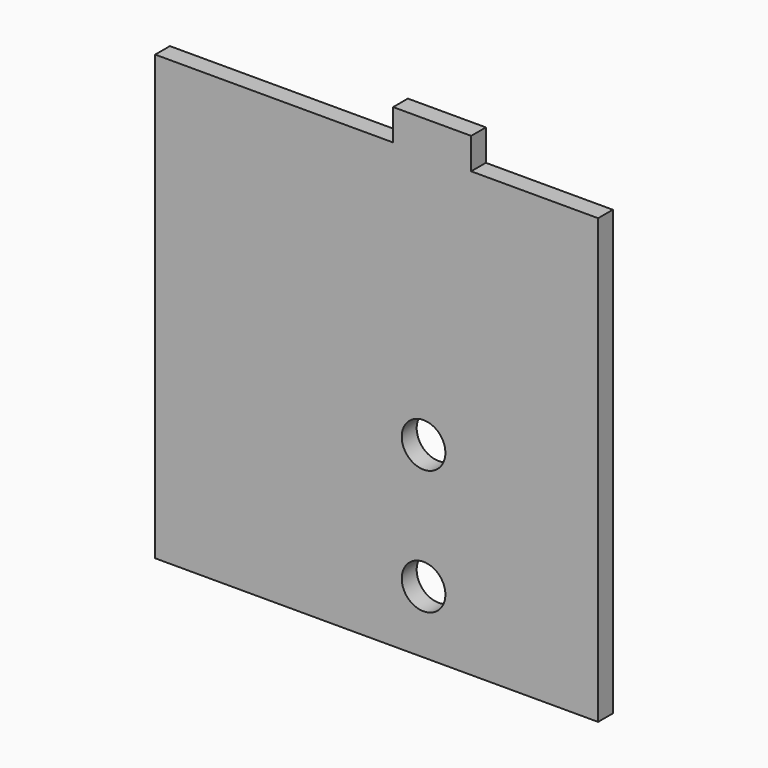
from build123d import *

# Parameters (mm, degrees)
PAD_DEPTH       = 10
PAD_DEPTH_BACK  = 8.45
POCKET_DEPTH    = 15.45
SKETCH005_R     = 3
SKETCH005_R_2   = 2.5
PAD001_DEPTH    = 2
SKETCH_R        = 5.75
POCKET002_DEPTH = 5
SKETCH011_W     = 15
SKETCH011_H     = 12
POCKET003_DEPTH = 14
POCKET004_DEPTH = 5
SKETCH013_W     = 11.65
SKETCH013_H     = 6.68
POCKET005_DEPTH = 1.5
SKETCH014_R     = 3.5
POCKET006_DEPTH = 5
SKETCH006_R     = 1
SKETCH006_R_2   = 0.77
SKETCH006_R_3   = 1.125
POCKET009_DEPTH = 2
SKETCH019_W     = 100
SKETCH019_H     = 100
SKETCH019_W_2   = 67
SKETCH019_H_2   = 67.08
POCKET010_DEPTH = 15.5


with BuildPart() as part:
    # Sketch003 → Pad (new body, two sides)
    with BuildSketch(Plane.XZ) as pad_sk:
        Polygon((-35.76, 31.05), (2.39, 31.05), (2.39, 36.05), (14.89, 36.05), (14.89, 31.05), (35.24, 31.05), (35.24, -40.03), (-35.76, -40.03), align=None)
    extrude(amount=PAD_DEPTH)
    extrude(pad_sk.sketch, amount=-PAD_DEPTH_BACK)

    # Sketch004 (on Face9 of Pad) → Pocket (cut)
    with BuildSketch(Plane(origin=(0, 8.45, 0), x_dir=(1, 0, 0), z_dir=(0, 1, 0))):
        Polygon((-33.76, 38.03), (33.24, 38.03), (33.24, -29.05), (12.89, -29.05), (12.89, -34.05), (4.39, -34.05), (4.39, -29.05), (-33.76, -29.05), align=None)
    extrude(amount=-POCKET_DEPTH, mode=Mode.SUBTRACT)

    # Sketch005 (on Face19 of Pocket) → Pad001 (join)
    with BuildSketch(Plane(origin=(0, -7, 0), x_dir=(1, 0, 0), z_dir=(0, 1, 0))):
        with Locations((-4.91, 33.77)):
            Circle(SKETCH005_R)
        with Locations((-29.29, 33.77)):
            Circle(SKETCH005_R)
        with Locations((-29.29, 7.54)):
            Circle(SKETCH005_R)
        with Locations((-4.91, 7.54)):
            Circle(SKETCH005_R)
        with Locations((30.36, 33.28)):
            Circle(SKETCH005_R_2)
        with Locations((18.93, 33.28)):
            Circle(SKETCH005_R_2)
        with Locations((18.55, 16.9)):
            Circle(SKETCH005_R_2)
        with Locations((30.74, 16.9)):
            Circle(SKETCH005_R_2)
        with Locations((28.74, -24.55)):
            Circle(SKETCH005_R)
        with Locations((-29.26, -24.55)):
            Circle(SKETCH005_R)
        with Locations((-29.26, -1.55)):
            Circle(SKETCH005_R)
        with Locations((28.74, -1.55)):
            Circle(SKETCH005_R)
    extrude(amount=PAD001_DEPTH)

    # Sketch → Pocket002 (cut)
    with BuildSketch(Plane(origin=(0, 0, -38.03), x_dir=(-1, 0, 0), z_dir=(0, 0, 1))):
        with Locations((-9.5, -0.098891)):
            Circle(SKETCH_R)
    extrude(amount=-POCKET002_DEPTH, mode=Mode.SUBTRACT)

    # Sketch011 (on Face4 of Pocket002) → Pocket003 (cut)
    with BuildSketch(Plane(origin=(0, 8.45, 0), x_dir=(1, 0, 0), z_dir=(0, 1, 0))):
        with Locations((-33.76, -11.37)):
            Rectangle(SKETCH011_W, SKETCH011_H)
    extrude(amount=-POCKET003_DEPTH, mode=Mode.SUBTRACT)

    # Sketch012 (on Face1 of Pocket003) → Pocket004 (cut)
    with BuildSketch(Plane(origin=(0, 0, 31.05), x_dir=(-1, 0, 0), z_dir=(0, 0, 1))):
        Polygon((-17.41, 1.32), (-25.06, 1.32), (-25.06, 2.98), (-24.11, 4), (-18.36, 4), (-17.41, 2.98), align=None)
    extrude(amount=-POCKET004_DEPTH, mode=Mode.SUBTRACT)

    # Sketch013 (on Face1 of Pocket004) → Pocket005 (cut)
    with BuildSketch(Plane(origin=(0, 0, 31.05), x_dir=(-1, 0, 0), z_dir=(0, 0, 1))):
        with Locations((-21.235, 2.66)):
            Rectangle(SKETCH013_W, SKETCH013_H)
    extrude(amount=-POCKET005_DEPTH, mode=Mode.SUBTRACT)

    # Sketch014 (on Face27 of Pocket005) → Pocket006 (cut)
    with BuildSketch(Plane(origin=(0, -7, 0), x_dir=(1, 0, 0), z_dir=(0, 1, 0))):
        with Locations((7.26, 30.03)):
            Circle(SKETCH014_R)
        with Locations((7.26, 10.03)):
            Circle(SKETCH014_R)
    extrude(amount=-POCKET006_DEPTH, mode=Mode.SUBTRACT)

    # Sketch006 (on Face37 of Pad001) → Pocket009 (cut)
    with BuildSketch(Plane(origin=(0, -5, 0), x_dir=(1, 0, 0), z_dir=(0, 1, 0))):
        with Locations((-29.29, 33.77)):
            Circle(SKETCH006_R)
        with Locations((-4.91, 33.77)):
            Circle(SKETCH006_R)
        with Locations((-4.91, 7.54)):
            Circle(SKETCH006_R)
        with Locations((-29.29, 7.54)):
            Circle(SKETCH006_R)
        with Locations((18.93, 33.28)):
            Circle(SKETCH006_R_2)
        with Locations((30.36, 33.28)):
            Circle(SKETCH006_R_2)
        with Locations((18.55, 16.9)):
            Circle(SKETCH006_R_2)
        with Locations((30.74, 16.9)):
            Circle(SKETCH006_R_2)
        with Locations((-29.26, -1.55)):
            Circle(SKETCH006_R_3)
        with Locations((-29.26, -24.55)):
            Circle(SKETCH006_R_3)
        with Locations((28.74, -24.55)):
            Circle(SKETCH006_R_3)
        with Locations((28.74, -1.55)):
            Circle(SKETCH006_R_3)
    extrude(amount=-POCKET009_DEPTH, mode=Mode.SUBTRACT)

    # Sketch019 (on Face3 of Pocket009) → Pocket010 (cut)
    with BuildSketch(Plane(origin=(0, 8.45, 0), x_dir=(1, 0, 0), z_dir=(0, 1, 0))):
        Rectangle(SKETCH019_W, SKETCH019_H)
        with Locations((-0.26, 4.49)):
            Rectangle(SKETCH019_W_2, SKETCH019_H_2, mode=Mode.SUBTRACT)
    extrude(amount=-POCKET010_DEPTH, mode=Mode.SUBTRACT)


solid = part.part
